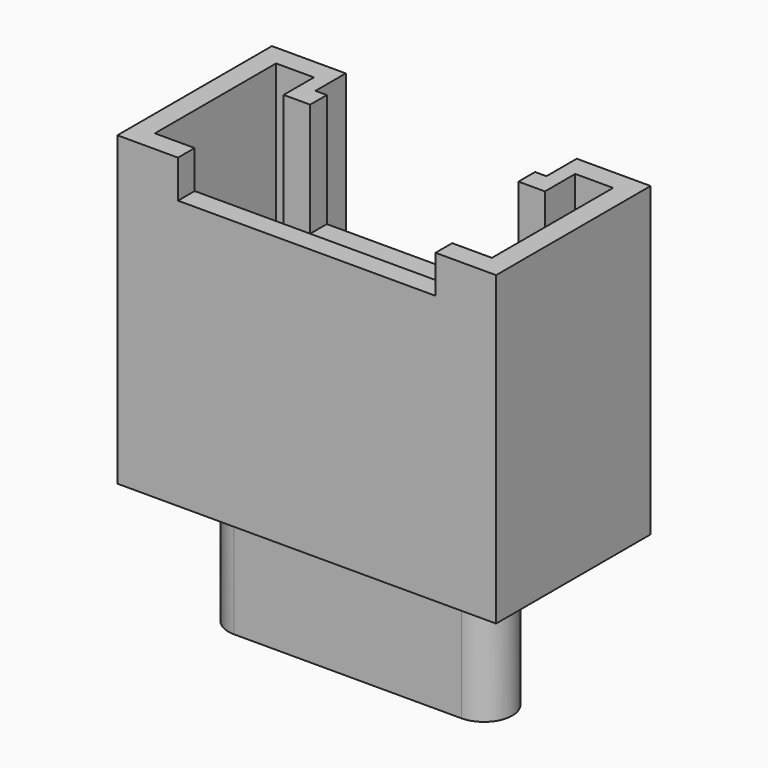
from build123d import *

# Parameters (mm, degrees)
PAD005_DEPTH            = 8.1
POCKET003_DEPTH         = 7
SKETCH010_W             = 6.8
SKETCH010_H             = 5
POCKET004_DEPTH         = 1
SKETCH011_W             = 5.5
SKETCH011_H             = 3
POCKET005_DEPTH         = 3
PAD006_DEPTH            = 4
PAD014_DEPTH            = 3.4
BODY005_PLACEMENT_ANGLE = 180


with BuildPart() as part:
    # Sketch008 → Pad005 (new body)
    with BuildSketch(Plane.XY):
        Polygon((-5, 0), (-3.05, 0), (-3.05, 1), (3.05, 1), (3.05, 0), (5, 0), (5, 5.1), (-5, 5.1), align=None)
    extrude(amount=PAD005_DEPTH)

    # Sketch009 (on Face10 of Pad005) → Pocket003 (cut)
    with BuildSketch(Plane.XY.offset(8.1)):
        Polygon((-4.45, 0.55), (-3.45, 0.55), (-3.45, 1.55), (3.45, 1.55), (3.45, 0.55), (4.45, 0.55), (4.45, 4.55), (-4.45, 4.55), align=None)
    extrude(amount=-POCKET003_DEPTH, mode=Mode.SUBTRACT)

    # Sketch010 (on Face5 of Pocket003) → Pocket004 (cut)
    with BuildSketch(Plane.XY.offset(8.1)):
        with Locations((0, 5.5)):
            Rectangle(SKETCH010_W, SKETCH010_H)
    extrude(amount=-POCKET004_DEPTH, mode=Mode.SUBTRACT)

    # Sketch011 (on Face5 of Pocket004) → Pocket005 (cut)
    with BuildSketch(Plane.XY.offset(8.1)):
        with Locations((0, 1.5)):
            Rectangle(SKETCH011_W, SKETCH011_H)
    extrude(amount=-POCKET005_DEPTH, mode=Mode.SUBTRACT)

    # Sketch012 (on Face26 of Pocket005) → Pad006 (join)
    with BuildSketch(Plane.XY.offset(1.1)):
        with BuildLine():
            ThreePointArc((-3.4, 3.25), (-3.65, 3), (-3.4, 2.75))
            Line((-3.4, 2.75), (3.4, 2.75))
            ThreePointArc((3.4, 2.75), (3.65, 3), (3.4, 3.25))
            Line((-3.4, 3.25), (3.4, 3.25))
        make_face()
    extrude(amount=PAD006_DEPTH)

    # Sketch020 (on Face4 of Pad006) → Pad014 (join)
    with BuildSketch(Plane(origin=(0, 0, 0), x_dir=(1, 0, 0), z_dir=(0, 0, -1))):
        with BuildLine():
            ThreePointArc((-3, -2.25), (-3.75, -3), (-3, -3.75))
            Line((-3, -3.75), (3, -3.75))
            ThreePointArc((3, -3.75), (3.75, -3), (3, -2.25))
            Line((-3, -2.25), (3, -2.25))
        make_face()
    extrude(amount=PAD014_DEPTH)


with BuildPart() as part_1:
    # Body005 placement: moved
    add(part.part.moved(Location((-7, 29, 0))).rotate(Axis((-7, 29, 0), (0, 0, 1)), BODY005_PLACEMENT_ANGLE))


with BuildPart() as part_2:
    # Body007 placement: moved
    add(part_1.part.moved(Location((14, 0, 0))))


solid = part_2.part
